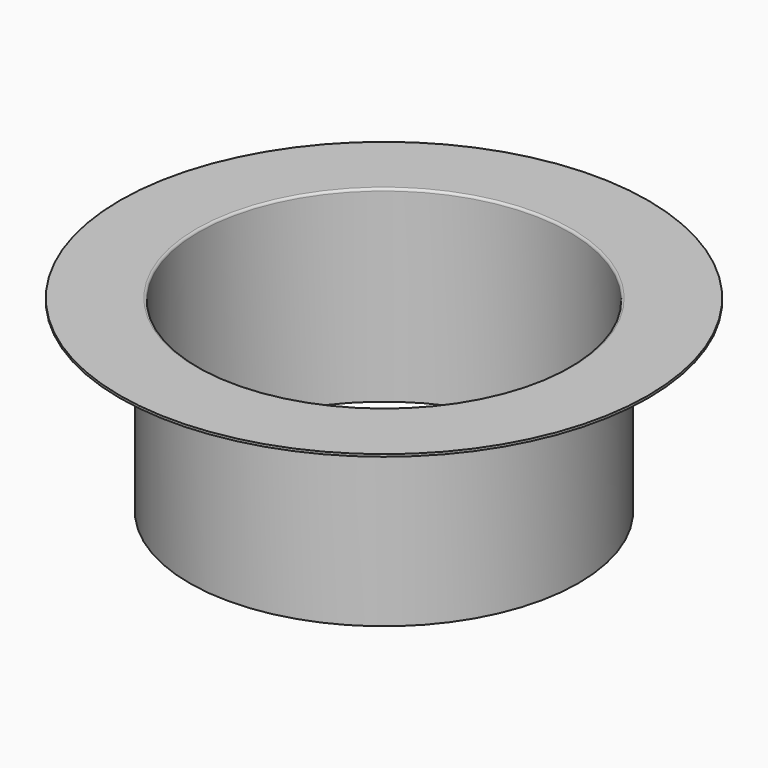
from build123d import *


with BuildPart() as f1:
    # F0 (on Front) → F1 (revolve)
    with BuildSketch(Plane.XZ):
        with BuildLine():
            Line((-24.898092, 44.645253), (-41.40266, 44.645253))
            Line((-41.40266, 44.645253), (-41.40266, 44.145253))
            Line((-41.40266, 44.145253), (-26.50266, 44.145253))
            ThreePointArc((-26.50266, 44.145253), (-26.43195, 44.115964), (-26.40266, 44.045253))
            Line((-26.40266, 44.045253), (-26.40266, 4.145253))
            Line((-26.40266, 4.145253), (-24.398092, 4.145253))
            Line((-24.398092, 4.145253), (-24.398092, 44.145253))
            ThreePointArc((-24.398092, 44.145253), (-24.544539, 44.498806), (-24.898092, 44.645253))
        make_face()
    revolve(axis=Axis((15.574905, 0, 17.308091), (0, 0, 1)))


solid = f1.part
